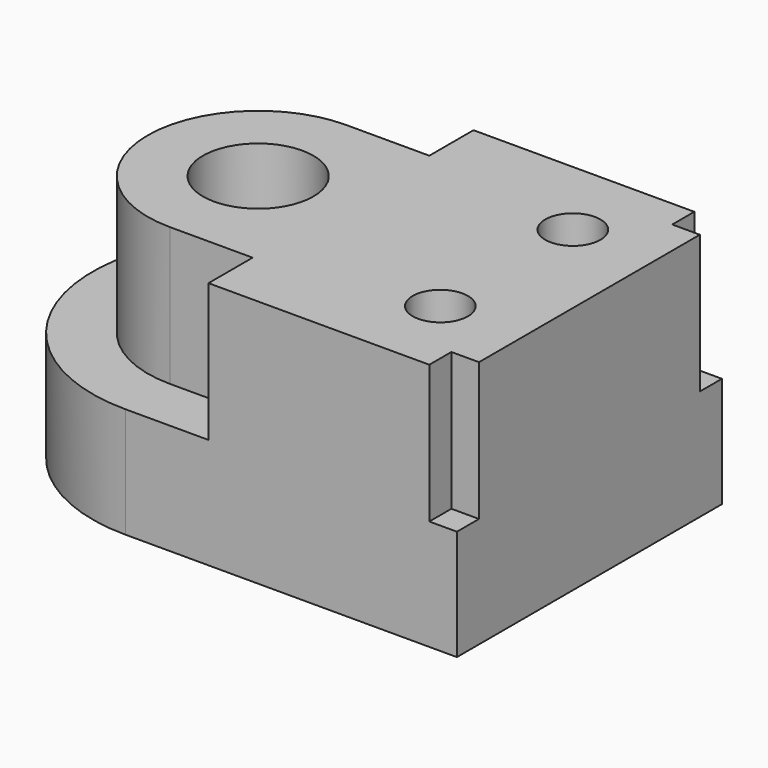
from build123d import *

# Parameters (mm, degrees)
PAD_DEPTH       = 45
SKETCH001_W     = 5
SKETCH001_H     = 5
POCKET_DEPTH    = 25
SKETCH002_R     = 10
SKETCH002_R_2   = 5
POCKET001_DEPTH = 45.001


with BuildPart() as part:
    # Sketch → Pad (new body)
    with BuildSketch(Plane.XY):
        with BuildLine():
            ThreePointArc((0, 30), (-30, 0), (0, -30))
            Line((60, -30), (0, -30))
            Line((60, 30), (60, -30))
            Line((0, 30), (60, 30))
        make_face()
    extrude(amount=PAD_DEPTH)

    # Sketch001 (on Face6 of Pad) → Pocket (cut)
    with BuildSketch(Plane.XY.offset(45)):
        with BuildLine():
            ThreePointArc((0, 20), (-20, 0), (0, -20))
            Line((0, -20), (15, -20))
            Line((15, -20), (15, -30))
            Line((15, -30), (0, -30))
            ThreePointArc((0, 30), (-30, 0), (0, -30))
            Line((0, 30), (15, 30))
            Line((15, 30), (15, 20))
            Line((15, 20), (0, 20))
        make_face()
        with Locations((57.5, 27.5)):
            Rectangle(SKETCH001_W, SKETCH001_H)
        with Locations((57.5, -27.5)):
            Rectangle(SKETCH001_W, SKETCH001_H)
    extrude(amount=-POCKET_DEPTH, mode=Mode.SUBTRACT)

    # Sketch002 (on Face8 of Pocket) → Pocket001 (cut, through all)
    with BuildSketch(Plane.XY.offset(45)):
        Circle(SKETCH002_R)
        with Locations((45, 15)):
            Circle(SKETCH002_R_2)
        with Locations((45, -15)):
            Circle(SKETCH002_R_2)
    extrude(amount=-POCKET001_DEPTH, mode=Mode.SUBTRACT)


solid = part.part
